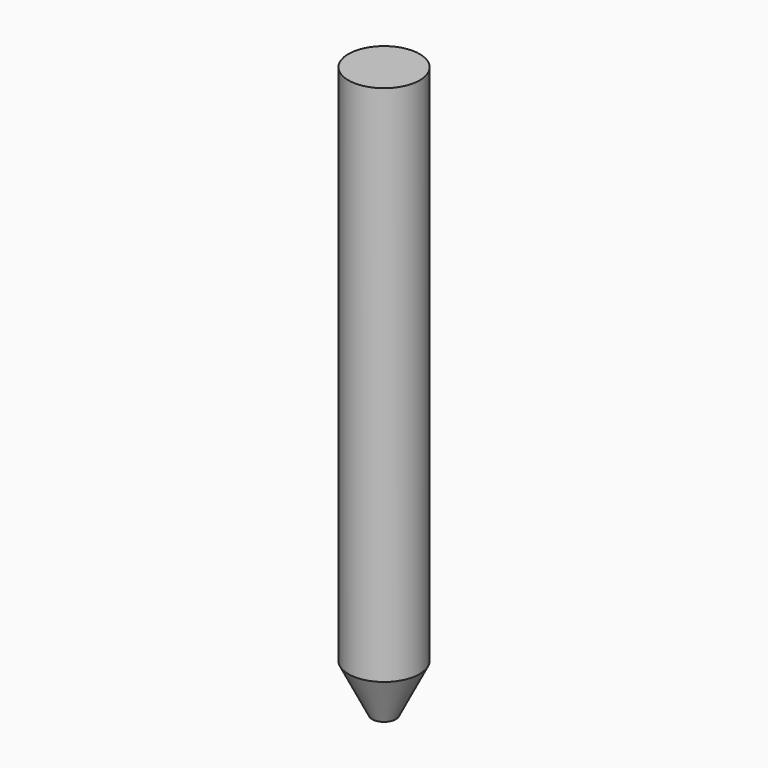
from build123d import *

# Parameters (mm, degrees)
F0_R = 1.5875
F2_R = 4.7625
F4_R = 4.7625


with BuildPart() as f5:
    # F0 (on Top) → F5 section 0
    with BuildSketch(Plane.XY):
        Circle(F0_R)
    # F2 (on offset) → F5 section 1
    with BuildSketch(Plane.XY.offset(6.35)):
        Circle(F2_R)
    loft()

    # F2 (on offset) → F6 section 0
    with BuildSketch(Plane.XY.offset(6.35)):
        Circle(F2_R)
    # F4 (on offset) → F6 section 1
    with BuildSketch(Plane.XY.offset(76.2)):
        Circle(F4_R)
    loft()


solid = f5.part
